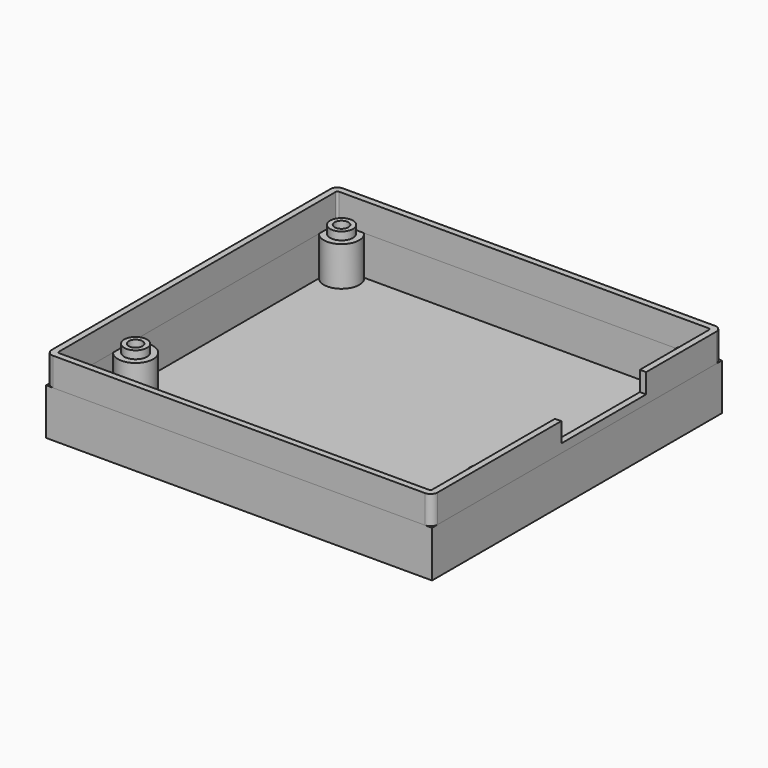
from build123d import *

# Parameters (mm, degrees)
SKETCH_W      = 98.2
SKETCH_H      = 92.2
SKETCH_R      = 5
SKETCH_R_2    = 3.2
SKETCH_R_3    = 1.4
SKETCH_R_4    = 2.2
SKETCH_W_2    = 79
SKETCH_H_2    = 52
PAD_DEPTH     = 1.8
SKETCH001_W   = 98.2
SKETCH001_H   = 92.2
SKETCH001_W_2 = 95
SKETCH001_H_2 = 89
PAD001_DEPTH  = 17.2
SKETCH002_R   = 4
SKETCH002_R_2 = 1.58
PAD002_DEPTH  = 6.2
FILLET_R      = 1.79
FILLET001_R   = 0.5
SKETCH003_W   = 27
SKETCH003_H   = 5
POCKET_DEPTH  = 1.6
SKETCH007_W   = 98.2
SKETCH007_H   = 92.2
SKETCH007_R   = 3
PAD006_DEPTH  = 1.8
SKETCH005_W   = 98.2
SKETCH005_H   = 92.2
SKETCH005_W_2 = 95
SKETCH005_H_2 = 89
PAD007_DEPTH  = 10
SKETCH008_R   = 4.5
SKETCH008_R_2 = 3
PAD008_DEPTH  = 1.2
SKETCH009_R   = 4.5
SKETCH009_R_2 = 1.75
PAD009_DEPTH  = 8.8
SKETCH006_R   = 2.9
SKETCH006_R_2 = 1.75
PAD010_DEPTH  = 2


with BuildPart() as pocket:
    # Sketch → Pad (new body)
    with BuildSketch(Plane.XY):
        Rectangle(SKETCH_W, SKETCH_H)
        with Locations((-37, -35)):
            Circle(SKETCH_R, mode=Mode.SUBTRACT)
        with Locations((-4, -35)):
            Circle(SKETCH_R_2, mode=Mode.SUBTRACT)
        with Locations((-23.1, -35)):
            Circle(SKETCH_R_3, mode=Mode.SUBTRACT)
        with Locations((-18.5, -30.4)):
            Circle(SKETCH_R_3, mode=Mode.SUBTRACT)
        with Locations((-13.9, -35)):
            Circle(SKETCH_R_3, mode=Mode.SUBTRACT)
        with Locations((-18.5, -39.6)):
            Circle(SKETCH_R_3, mode=Mode.SUBTRACT)
        with Locations((-18.5, -35)):
            Circle(SKETCH_R_4, mode=Mode.SUBTRACT)
        with Locations((-21.752691, -31.747309)):
            Circle(SKETCH_R_3, mode=Mode.SUBTRACT)
        with Locations((-15.247309, -31.747309)):
            Circle(SKETCH_R_3, mode=Mode.SUBTRACT)
        with Locations((-15.247309, -38.252691)):
            Circle(SKETCH_R_3, mode=Mode.SUBTRACT)
        with Locations((-21.752691, -38.252691)):
            Circle(SKETCH_R_3, mode=Mode.SUBTRACT)
        with Locations((38.5, -31.5)):
            Circle(SKETCH_R_2, mode=Mode.SUBTRACT)
        with Locations((0, 9)):
            Rectangle(SKETCH_W_2, SKETCH_H_2, mode=Mode.SUBTRACT)
    extrude(amount=PAD_DEPTH)

    # Sketch001 (on Face22 of Pad) → Pad001 (new body)
    with BuildSketch(Plane.XY.offset(1.8)):
        Rectangle(SKETCH001_W, SKETCH001_H)
        Rectangle(SKETCH001_W_2, SKETCH001_H_2, mode=Mode.SUBTRACT)
    extrude(amount=PAD001_DEPTH)

    # Sketch002 (on Face26 of Pad001) → Pad002 (new body)
    with BuildSketch(Plane.XY.offset(1.8)):
        with Locations((-44, 41.5)):
            Circle(SKETCH002_R)
        with Locations((-44, 41.5)):
            Circle(SKETCH002_R_2, mode=Mode.SUBTRACT)
        with Locations((44, 41.5)):
            Circle(SKETCH002_R)
        with Locations((44, 41.5)):
            Circle(SKETCH002_R_2, mode=Mode.SUBTRACT)
        with Locations((44, -24)):
            Circle(SKETCH002_R)
        with Locations((44, -24)):
            Circle(SKETCH002_R_2, mode=Mode.SUBTRACT)
        with Locations((-44, -24)):
            Circle(SKETCH002_R)
        with Locations((-44, -24)):
            Circle(SKETCH002_R_2, mode=Mode.SUBTRACT)
    extrude(amount=PAD002_DEPTH)

    # Fillet
    fillet_edges = [pocket.edges().sort_by_distance(p)[0] for p in [
        (-49.1, 46.1, 0.9),
        (-49.1, 46.1, 10.4),
        (-49.1, -46.1, 0.9),
        (-49.1, -46.1, 10.4),
        (49.1, 46.1, 0.9),
        (49.1, 46.1, 10.4),
        (49.1, -46.1, 0.9),
        (49.1, -46.1, 10.4),
        (0, -46.1, 0),
        (49.1, 0, 0),
        (0, 46.1, 0),
        (-49.1, 0, 0),
    ]]
    fillet(fillet_edges, radius=FILLET_R)

    # Fillet001
    fillet001_edges = [pocket.edges().sort_by_distance(p)[0] for p in [
        (-47.5, 44.5, 10.4),
        (-47.5, -44.5, 10.4),
        (47.5, -44.5, 10.4),
        (47.5, 44.5, 10.4),
    ]]
    fillet(fillet001_edges, radius=FILLET001_R)

    # Sketch003 (on Face46 of Fillet001) → Pocket (cut)
    with BuildSketch(Plane.YZ.offset(49.1)):
        with Locations((8.5, 16.5)):
            Rectangle(SKETCH003_W, SKETCH003_H)
    extrude(amount=-POCKET_DEPTH, mode=Mode.SUBTRACT)


with BuildPart() as pad010:
    # Sketch007 → Pad006 (new body)
    with BuildSketch(Plane.XY):
        Rectangle(SKETCH007_W, SKETCH007_H)
        with Locations((-44, 41.5)):
            Circle(SKETCH007_R, mode=Mode.SUBTRACT)
        with Locations((44, 41.5)):
            Circle(SKETCH007_R, mode=Mode.SUBTRACT)
        with Locations((44, -24)):
            Circle(SKETCH007_R, mode=Mode.SUBTRACT)
        with Locations((-44, -24)):
            Circle(SKETCH007_R, mode=Mode.SUBTRACT)
    extrude(amount=PAD006_DEPTH)

    # Sketch005 (on Face10 of Pad006) → Pad007 (new body)
    with BuildSketch(Plane.XY.offset(1.8)):
        Rectangle(SKETCH005_W, SKETCH005_H)
        Rectangle(SKETCH005_W_2, SKETCH005_H_2, mode=Mode.SUBTRACT)
    extrude(amount=PAD007_DEPTH)

    # Sketch008 (on Face14 of Pad007) → Pad008 (new body)
    with BuildSketch(Plane.XY.offset(1.8)):
        with Locations((-44, 41.5)):
            Circle(SKETCH008_R)
        with Locations((-44, 41.5)):
            Circle(SKETCH008_R_2, mode=Mode.SUBTRACT)
        with Locations((44, 41.5)):
            Circle(SKETCH008_R)
        with Locations((44, 41.5)):
            Circle(SKETCH008_R_2, mode=Mode.SUBTRACT)
        with Locations((44, -24)):
            Circle(SKETCH008_R)
        with Locations((44, -24)):
            Circle(SKETCH008_R_2, mode=Mode.SUBTRACT)
        with Locations((-44, -24)):
            Circle(SKETCH008_R)
        with Locations((-44, -24)):
            Circle(SKETCH008_R_2, mode=Mode.SUBTRACT)
    extrude(amount=PAD008_DEPTH)

    # Sketch009 (on Face24 of Pad008) → Pad009 (new body)
    with BuildSketch(Plane.XY.offset(3)):
        with Locations((-44, 41.5)):
            Circle(SKETCH009_R)
        with Locations((-44, 41.5)):
            Circle(SKETCH009_R_2, mode=Mode.SUBTRACT)
        with Locations((44, 41.5)):
            Circle(SKETCH009_R)
        with Locations((44, 41.5)):
            Circle(SKETCH009_R_2, mode=Mode.SUBTRACT)
        with Locations((44, -24)):
            Circle(SKETCH009_R)
        with Locations((44, -24)):
            Circle(SKETCH009_R_2, mode=Mode.SUBTRACT)
        with Locations((-44, -24)):
            Circle(SKETCH009_R)
        with Locations((-44, -24)):
            Circle(SKETCH009_R_2, mode=Mode.SUBTRACT)
    extrude(amount=PAD009_DEPTH)

    # Sketch006 (on Face48 of Pad009) → Pad010 (new body)
    with BuildSketch(Plane.XY.offset(11.8)):
        with Locations((-44, 41.5)):
            Circle(SKETCH006_R)
        with Locations((-44, 41.5)):
            Circle(SKETCH006_R_2, mode=Mode.SUBTRACT)
        with Locations((44, 41.5)):
            Circle(SKETCH006_R)
        with Locations((44, 41.5)):
            Circle(SKETCH006_R_2, mode=Mode.SUBTRACT)
        with Locations((44, -24)):
            Circle(SKETCH006_R)
        with Locations((44, -24)):
            Circle(SKETCH006_R_2, mode=Mode.SUBTRACT)
        with Locations((-44, -24)):
            Circle(SKETCH006_R)
        with Locations((-44, -24)):
            Circle(SKETCH006_R_2, mode=Mode.SUBTRACT)
    extrude(amount=PAD010_DEPTH)


solid = Compound([pocket.part, pad010.part])
